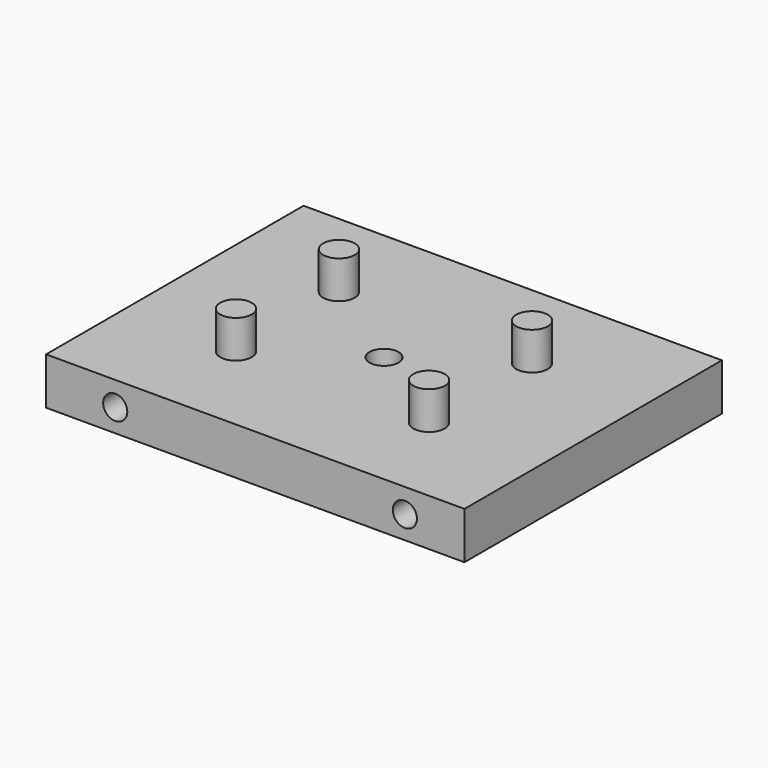
from build123d import *

# Parameters (mm, degrees)
F0_W     = 165.1
F0_H     = 127
F0_R     = 5.715
F1_DEPTH = 18.542
F2_R     = 6.223
F3_DEPTH = 14.859
F4_R     = 4.7625
F5_DEPTH = 65.3288


with BuildPart() as f1:
    # F0 (on Top) → F1 (new body)
    with BuildSketch(Plane.XY):
        with Locations((82.55, 63.5)):
            Rectangle(F0_W, F0_H)
        with Locations((82.55, 63.5)):
            Circle(F0_R, mode=Mode.SUBTRACT)
    extrude(amount=F1_DEPTH)

    # F2 (on face) → F3 (join)
    with BuildSketch(Plane.XY.offset(18.542)):
        with Locations((44.45, 88.9)):
            Circle(F2_R)
        with Locations((120.65, 88.9)):
            Circle(F2_R)
        with Locations((120.65, 38.1)):
            Circle(F2_R)
        with Locations((44.45, 38.1)):
            Circle(F2_R)
    extrude(amount=F3_DEPTH)

    # F4 (on face) → F5 (cut)
    with BuildSketch(Plane.XZ):
        with Locations((27.28341, 9.017)):
            Circle(F4_R)
        with Locations((141.58341, 9.017)):
            Circle(F4_R)
    extrude(amount=-F5_DEPTH, mode=Mode.SUBTRACT)


solid = f1.part
